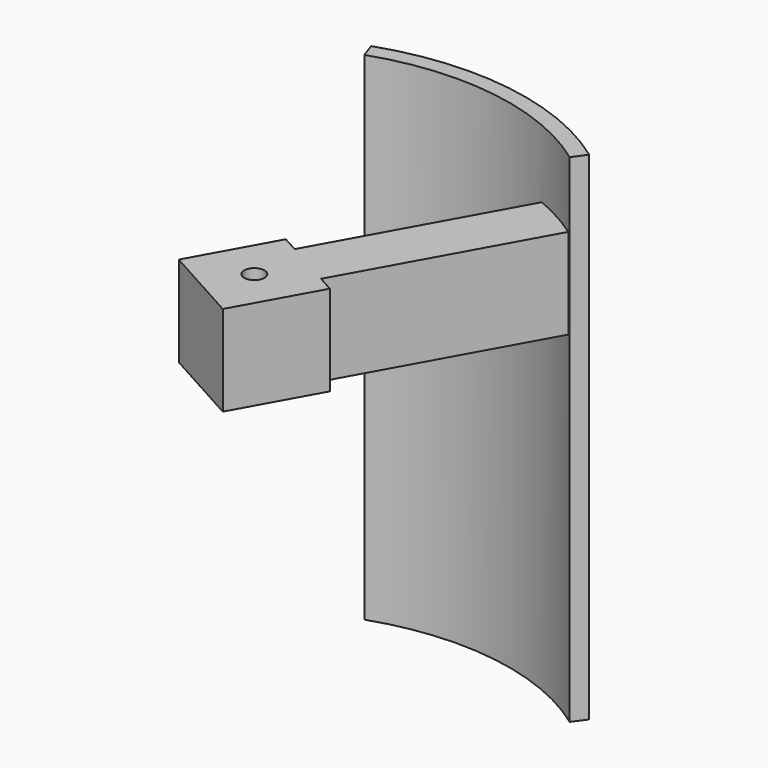
from build123d import *

# Parameters (mm, degrees)
PAD019_DEPTH            = 22
SKETCH006_W             = 4
SKETCH006_H             = 4
PAD020_DEPTH            = 13.5
SKETCH007_R             = 0.45
SKETCH007_W             = 0.8
SKETCH007_H             = 9.5
POCKET_DEPTH            = 5
BODY003_PLACEMENT_ANGLE = 90
FUSION_PLACEMENT_ANGLE  = 29


with BuildPart() as segment_wing:
    # Sketch029 → Pad019 (new body)
    with BuildSketch(Plane.XY):
        with BuildLine():
            ThreePointArc((1.377124, 11.215772), (-3.957343, 10.584396), (-8.397537, 7.561176))
            Line((-8.397537, 7.561176), (-8.917738, 8.029567))
            ThreePointArc((1.462432, 11.910554), (-4.202489, 11.240066), (-8.917738, 8.029567))
            Line((1.377124, 11.215772), (1.462432, 11.910554))
        make_face()
    extrude(amount=PAD019_DEPTH)


with BuildPart() as segment_wing_1:
    # Body011 placement: moved
    add(segment_wing.part.moved(Location((0, 0, -9))))


with BuildPart() as segment_on:
    # Sketch006 → Pad020 (new body)
    with BuildSketch(Plane.XY):
        with Locations((0, 6)):
            Rectangle(SKETCH006_W, SKETCH006_H)
    extrude(amount=PAD020_DEPTH)

    # Sketch007 (on Face1 of Pad020) → Pocket (cut)
    with BuildSketch(Plane(origin=(0, 8, 0), x_dir=(-1, 0, 0), z_dir=(0, 1, 0))):
        with Locations((0, 11.5)):
            Circle(SKETCH007_R)
        with Locations((-1.6, 4.75)):
            Rectangle(SKETCH007_W, SKETCH007_H)
        with Locations((1.6, 4.75)):
            Rectangle(SKETCH007_W, SKETCH007_H)
    extrude(amount=-POCKET_DEPTH, mode=Mode.SUBTRACT)


with BuildPart() as segment_on_1:
    # Body003 placement: moved
    add(segment_on.part.moved(Location((0, 11.5, 2))).rotate(Axis((0, 11.5, 2), (1, 0, 0)), BODY003_PLACEMENT_ANGLE))

    # Fusion: union Segment_Wing
    add(segment_wing_1.part)


with BuildPart() as segment_on_2:
    # Fusion placement: moved
    add(segment_on_1.part.rotate(Axis((0, 0, 0), (0, 0, -1)), FUSION_PLACEMENT_ANGLE))


solid = segment_on_2.part
